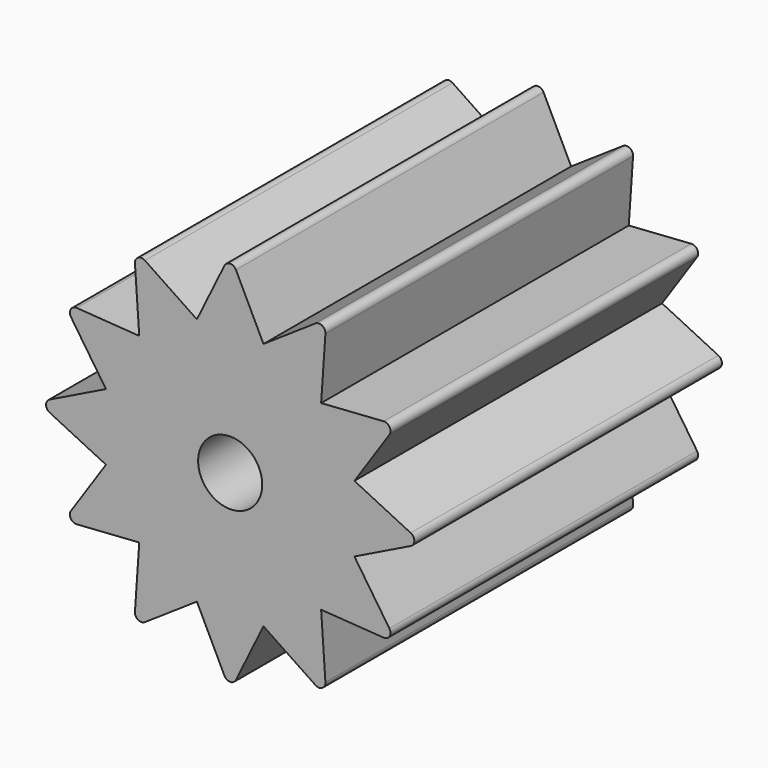
from build123d import *

# Parameters (mm, degrees)
F0_R     = 0.5
F1_DEPTH = 6
F2_DEPTH = 6
F3_R     = 0.1
F4_COUNT = 12


with BuildPart() as f1:
    # F0 (on Front) → F1 (new body)
    with BuildSketch(Plane.XZ):
        with BuildLine():
            ThreePointArc((-0.5233333333, 1.9303166119), (-1.2151817422, -1.588500341), (2, 0))
            ThreePointArc((2, 0), (1.588500341, 1.2151817422), (0.5233333333, 1.9303166119))
            ThreePointArc((0.5233333333, 1.9303166119), (0, 2), (-0.5233333333, 1.9303166119))
        make_face()
        Circle(F0_R, mode=Mode.SUBTRACT)
    extrude(amount=F1_DEPTH)



with BuildPart() as f2:
    # F0 (on Front) → F2 (new body)
    with BuildSketch(Plane.XZ):
        with BuildLine():
            ThreePointArc((-0.5233333333, 1.9303166119), (0, 2), (0.5233333333, 1.9303166119))
            Line((0.5233333333, 1.9303166119), (0, 3))
            Line((0, 3), (-0.5233333333, 1.9303166119))
        make_face()
    extrude(amount=F2_DEPTH)

    # F3
    f3_edges = [f2.edges().sort_by_distance(p)[0] for p in [
        (0, -3, 3),
    ]]
    fillet(f3_edges, radius=F3_R)


with BuildPart() as f1_1:
    add(f1.part)

    add(f2.part)  # F4 merges F2
    # F4: F2 ×12 about axis
    f4_axis = Axis((0, 0, 0), (0, -1, 0))
    for i in range(1, F4_COUNT):
        add(f2.part.rotate(f4_axis, i * 360 / F4_COUNT))


solid = f1_1.part
